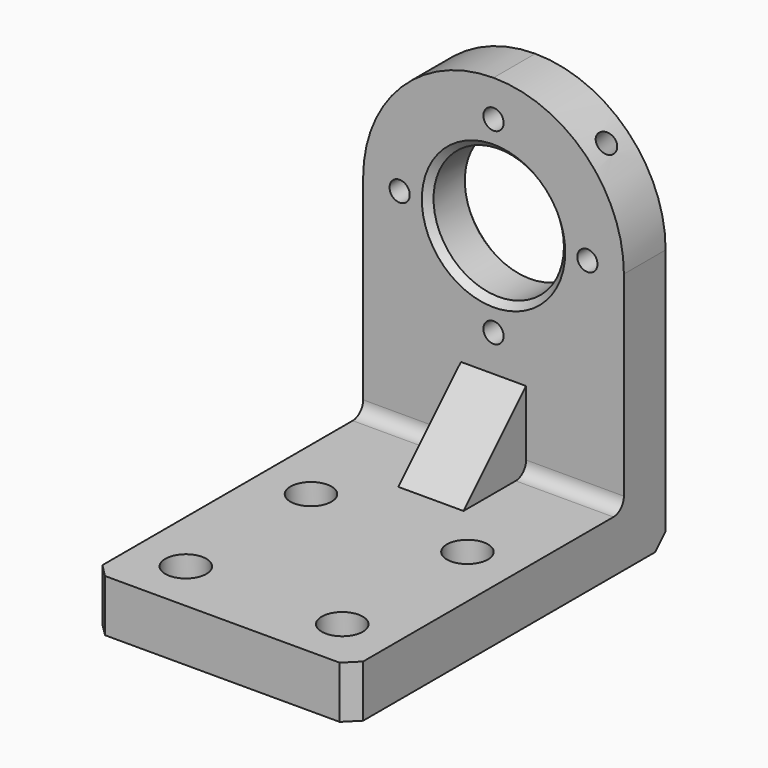
from build123d import *

# Parameters (mm, degrees)
F0_R            = 7.5770017359
F0_R_2          = 50
F1_DEPTH        = 40
F2_D            = 15.5
F2_DEPTH        = 40
F2_TIP          = 4.6566697975
F3_SIZE         = 5
F9_D            = 15.5
F9_DEPTH        = 40
F9_START        = 0.3007649
F9_TIP          = 4.6566697975
F11_D           = 15.5
F11_DEPTH       = 40
F11_START       = 0.3007649
F11_TIP         = 4.6566697975
F12_W           = 300
F12_H           = 40
F13_DEPTH       = 100
F15_R           = 10
F16_DEPTH       = 25
F17_SIZE        = 10
F19_D           = 17.5
F19_CBORE_D     = 31.5
F19_CBORE_DEPTH = 20


with BuildPart() as f1:
    # F0 (on Front) → F1 (new body)
    with BuildSketch(Plane.XZ):
        with BuildLine():
            Line((-100, 200), (-100, 0))
            Line((-100, 0), (100, 0))
            Line((100, 0), (100, 200))
            ThreePointArc((100, 200), (70.7106781187, 270.7106781187), (0, 300))
            ThreePointArc((0, 300), (-70.7106781187, 270.7106781187), (-100, 200))
        make_face()
        with Locations((0, 128)):
            Circle(F0_R, mode=Mode.SUBTRACT)
        with Locations((-72, 200)):
            Circle(F0_R, mode=Mode.SUBTRACT)
        with Locations((0, 200)):
            Circle(F0_R_2, mode=Mode.SUBTRACT)
        with Locations((72, 200)):
            Circle(F0_R, mode=Mode.SUBTRACT)
        with Locations((0, 272)):
            Circle(F0_R, mode=Mode.SUBTRACT)
        with Locations((72, 200)):
            Circle(F0_R)
        with Locations((0, 128)):
            Circle(F0_R)
        with Locations((-72, 200)):
            Circle(F0_R)
        with Locations((0, 272)):
            Circle(F0_R)
    extrude(amount=F1_DEPTH)

    # F2
    with Locations(Plane(origin=(0, 0, 0), x_dir=(1, 0, 0), z_dir=(0, 1, 0))):
        with Locations((0, -272), (72, -200), (0, -128), (-72, -200)):
            Hole(F2_D / 2, depth=F2_DEPTH)
            with Locations((0, 0, -(F2_DEPTH + F2_TIP / 2))):  # 118° drill point
                Cone(0, F2_D / 2, F2_TIP, mode=Mode.SUBTRACT)

    # F3
    f3_edges = [f1.edges().sort_by_distance(p)[0] for p in [
        (-50, 0, 200),
        (-50, -40, 200),
    ]]
    chamfer(f3_edges, length=F3_SIZE)

    # F9
    # its depths count from where the whole tool has entered the part; down to there all is cleared
    with Locations(Plane(origin=(170.7106781187, 0, 170.7106781187), x_dir=(0.7071067812, 0, -0.7071067812), z_dir=(0.7071067812, 0, 0.7071067812)).offset(-F9_START)):
        with Locations((-141.4213562373, -20)):
            Hole(F9_D / 2, depth=F9_DEPTH)
            with Locations((0, 0, -(F9_DEPTH + F9_TIP / 2))):  # 118° drill point
                Cone(0, F9_D / 2, F9_TIP, mode=Mode.SUBTRACT)

    # F11
    # its depths count from where the whole tool has entered the part; down to there all is cleared
    with Locations(Plane(origin=(-170.7106781187, 0, 170.7106781187), x_dir=(0, -1, 0), z_dir=(-0.7071067812, 0, 0.7071067812)).offset(-F11_START)):
        with Locations((20, 141.4213562373)):
            Hole(F11_D / 2, depth=F11_DEPTH)
            with Locations((0, 0, -(F11_DEPTH + F11_TIP / 2))):  # 118° drill point
                Cone(0, F11_D / 2, F11_TIP, mode=Mode.SUBTRACT)

    # F12 (on Right) → F13 (join, symmetric)
    with BuildSketch(Plane.YZ):
        with Locations((-150, 20)):
            Rectangle(F12_W, F12_H)
    extrude(amount=F13_DEPTH, both=True)

    # F15
    f15_edges = [f1.edges().sort_by_distance(p)[0] for p in [
        (0, -40, 40),
    ]]
    fillet(f15_edges, radius=F15_R)

    # F14 (on Right) → F16 (join, symmetric)
    with BuildSketch(Plane.YZ):
        Polygon((-40, 40), (-40, 100), (-100, 40), align=None)
    extrude(amount=F16_DEPTH, both=True)

    # F17
    f17_edges = [f1.edges().sort_by_distance(p)[0] for p in [
        (100, -300, 20),
        (-100, -300, 20),
        (0, 0, 0),
    ]]
    chamfer(f17_edges, length=F17_SIZE)

    # F19 (through all)
    with Locations(Plane.XY.offset(40)):
        with Locations((-60, -140), (60, -140), (60, -260), (-60, -260)):
            CounterBoreHole(F19_D / 2, F19_CBORE_D / 2, F19_CBORE_DEPTH)


solid = f1.part
